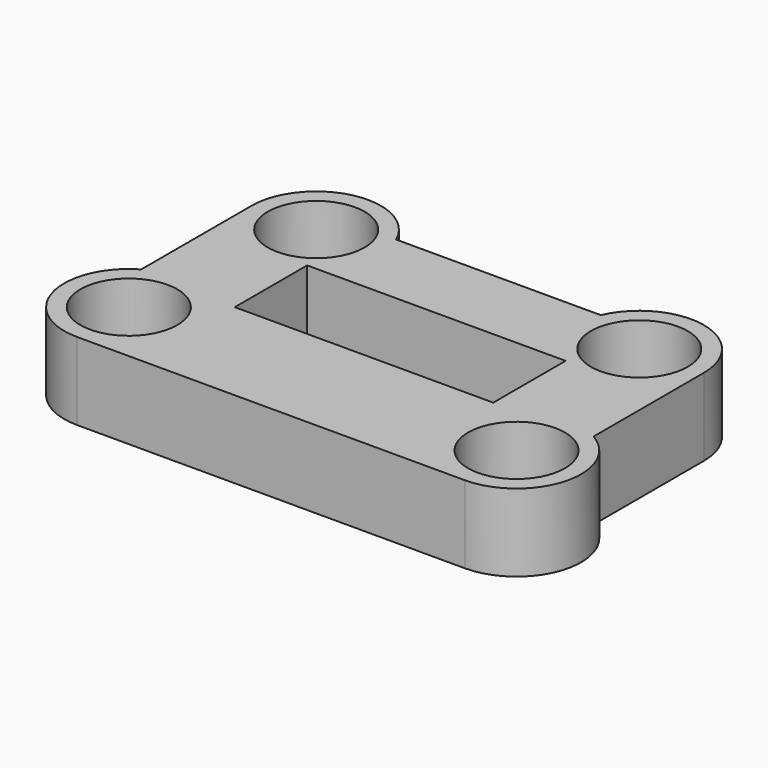
from build123d import *

# Parameters (mm, degrees)
SKETCH155_W         = 20
SKETCH155_H         = 7
PAD067_DEPTH        = 6
HOLE009_D           = 4.5
HOLE009_DEPTH       = 25
HOLE009_CBORE_D     = 7.5
HOLE009_CBORE_DEPTH = 4
SKETCH275_W         = 16
SKETCH275_H         = 20
POCKET114_DEPTH     = 1


with BuildPart() as part:
    # Sketch155 → Pad067 (new body)
    with BuildSketch(Plane.XY):
        with BuildLine():
            Line((-7.917424, 2), (7.917424, 2))
            ThreePointArc((17.5, 0), (13.521548, 4.894532), (7.917424, 2))
            Line((17.5, -10.669873), (17.5, 0))
            ThreePointArc((15, -20), (19.829629, -16.294095), (17.5, -10.669873))
            Line((-14.999993, -20), (15, -20))
            ThreePointArc((-17.5, -10.669873), (-19.829628, -16.294099), (-14.999993, -20))
            Line((-17.5, -10.669873), (-17.5, 0))
            ThreePointArc((-7.917424, 2), (-13.521548, 4.894532), (-17.5, 0))
        make_face()
        with Locations((0, -7.5)):
            Rectangle(SKETCH155_W, SKETCH155_H, mode=Mode.SUBTRACT)
    extrude(amount=PAD067_DEPTH)

    # Hole009
    with Locations(Plane.XY.offset(6)):
        with Locations((-12.5, 0), (12.5, 0), (15, -15), (-15, -15)):
            CounterBoreHole(HOLE009_D / 2, HOLE009_CBORE_D / 2, HOLE009_CBORE_DEPTH, depth=HOLE009_DEPTH)

    # Sketch275 (on Face4 of Hole009) → Pocket114 (cut)
    with BuildSketch(Plane(origin=(0, 0, 0), x_dir=(1, 0, 0), z_dir=(0, 0, -1))):
        with Locations((0, 8)):
            Rectangle(SKETCH275_W, SKETCH275_H)
    extrude(amount=-POCKET114_DEPTH, mode=Mode.SUBTRACT)


with BuildPart() as part_1:
    # Body019 placement: moved
    add(part.part.moved(Location((102, 0, 0))))


solid = part_1.part
